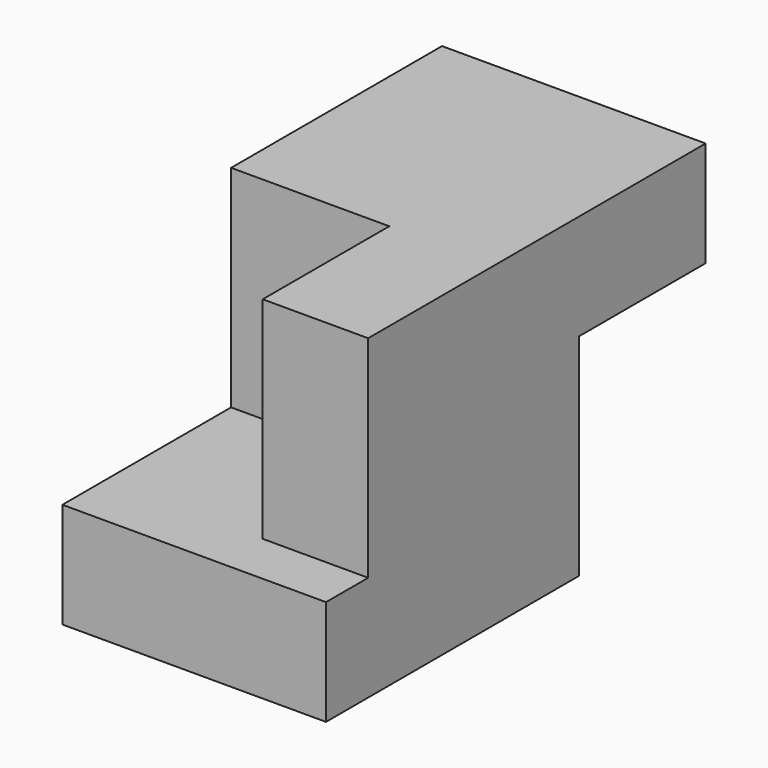
from build123d import *

# Parameters (mm, degrees)
F0_W     = 127
F0_H     = 152.4
F1_DEPTH = 50.8
F2_W     = 127
F2_H     = 50.8
F3_DEPTH = 76.2
F4_W     = 127
F4_H     = 50.8
F5_DEPTH = 101.6
F6_W     = 50.8
F6_H     = 76.2
F7_DEPTH = 101.6


with BuildPart() as f1:
    # F0 (on Front) → F1 (new body)
    with BuildSketch(Plane.XZ):
        with Locations((4.05114, 7.757214)):
            Rectangle(F0_W, F0_H)
    extrude(amount=F1_DEPTH)

    # F2 (on face) → F3 (join)
    with BuildSketch(Plane(origin=(0, 0, 0), x_dir=(-1, 0, 0), z_dir=(0, 1, 0))):
        with Locations((-4.05114, 58.557214)):
            Rectangle(F2_W, F2_H)
    extrude(amount=F3_DEPTH)

    # F4 (on face) → F5 (join)
    with BuildSketch(Plane.XZ.offset(50.8)):
        with Locations((4.05114, -43.042786)):
            Rectangle(F4_W, F4_H)
    extrude(amount=F5_DEPTH)

    # F6 (on face) → F7 (join)
    with BuildSketch(Plane.XY.offset(-17.642786)):
        with Locations((42.15114, -88.9)):
            Rectangle(F6_W, F6_H)
    extrude(amount=F7_DEPTH)


solid = f1.part
